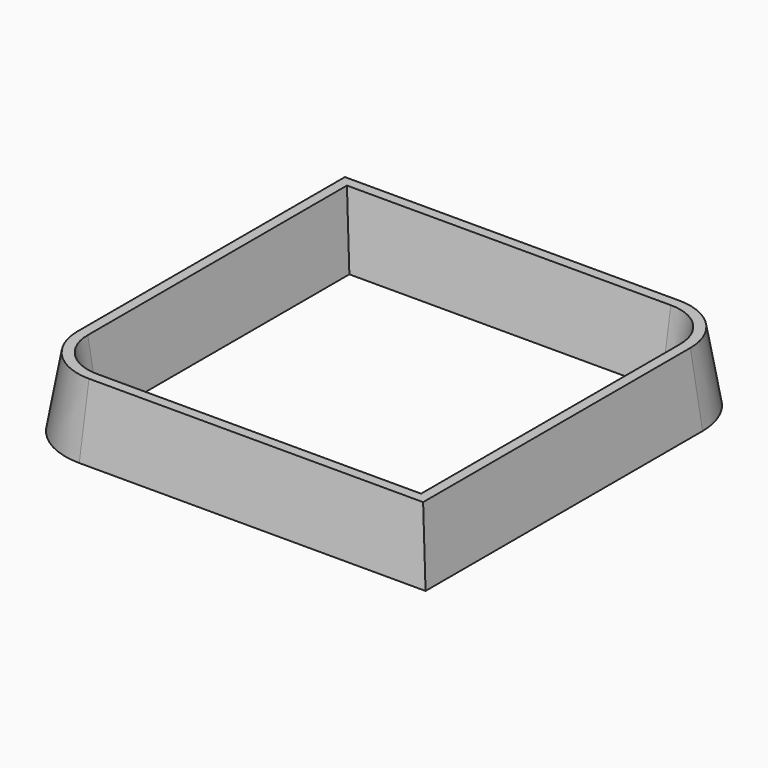
from build123d import *

# Parameters (mm, degrees)
F1_DEPTH = 40
F1_TAPER = 10


with BuildPart() as f1:
    # F0 (on Top) → F1 (new body)
    with BuildSketch(Plane.XY):
        with BuildLine():
            Line((80, 120), (-120, 120))
            Line((-120, 120), (-120, -80))
            ThreePointArc((-120, -80), (-108.2842712475, -108.2842712475), (-80, -120))
            Line((-80, -120), (120, -120))
            Line((120, -120), (120, 80))
            ThreePointArc((120, 80), (108.2842712475, 108.2842712475), (80, 120))
        make_face()
        with BuildLine():
            Line((-100, 100), (80, 100))
            ThreePointArc((80, 100), (94.1421356237, 94.1421356237), (100, 80))
            Line((100, 80), (100, -100))
            Line((100, -100), (-80, -100))
            ThreePointArc((-80, -100), (-94.1421356237, -94.1421356237), (-100, -80))
            Line((-100, -80), (-100, 100))
        make_face(mode=Mode.SUBTRACT)
        with BuildLine():
            Line((80, 120), (-120, 120))
            Line((-120, 120), (-120, -80))
            ThreePointArc((-120, -80), (-108.2842712475, -108.2842712475), (-80, -120))
            Line((-80, -120), (120, -120))
            Line((120, -120), (120, 80))
            ThreePointArc((120, 80), (108.2842712475, 108.2842712475), (80, 120))
        make_face()
        with BuildLine():
            Line((-100, 100), (80, 100))
            ThreePointArc((80, 100), (94.1421356237, 94.1421356237), (100, 80))
            Line((100, 80), (100, -100))
            Line((100, -100), (-80, -100))
            ThreePointArc((-80, -100), (-94.1421356237, -94.1421356237), (-100, -80))
            Line((-100, -80), (-100, 100))
        make_face(mode=Mode.SUBTRACT)
    extrude(amount=F1_DEPTH, taper=F1_TAPER)


solid = f1.part
